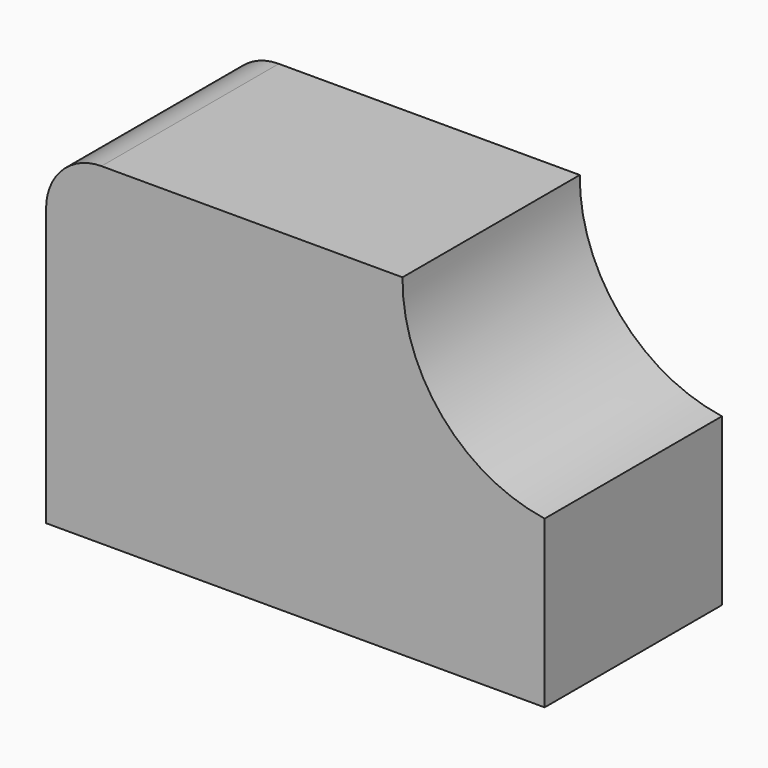
from build123d import *

# Parameters (mm, degrees)
F1_DEPTH = 25.4


with BuildPart() as f1:
    # F0 (on Front) → F1 (new body)
    with BuildSketch(Plane.XZ):
        with BuildLine():
            Line((0, 31.75), (0, 0))
            Line((0, 0), (57.15, 0))
            Line((57.15, 0), (57.15, 19.05))
            ThreePointArc((57.15, 19.05), (45.428242, 25.517368), (40.856171, 38.1))
            Line((40.856171, 38.1), (6.35, 38.1))
            ThreePointArc((6.35, 38.1), (1.859872, 36.240128), (0, 31.75))
        make_face()
    extrude(amount=F1_DEPTH)


solid = f1.part
